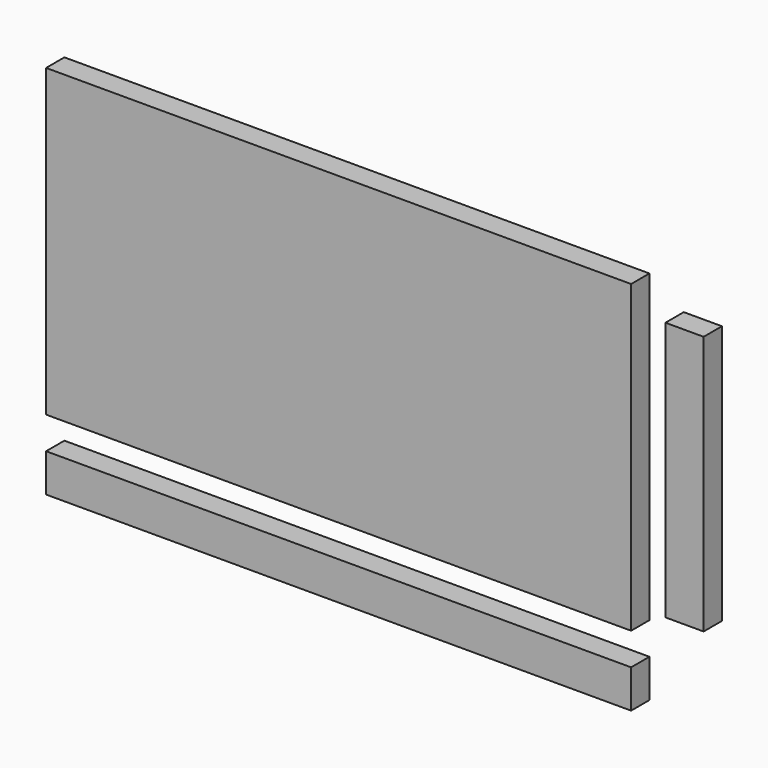
from build123d import *

# Parameters (mm, degrees)
F0_W     = 460
F0_H     = 240
F0_H_2   = 30
F0_W_2   = 30
F0_H_3   = 204
F1_DEPTH = 18


with BuildPart() as f1:
    # F0 (on Front) → F1 (new body)
    with BuildSketch(Plane.XZ):
        with Locations((4.767171, 63.557089)):
            Rectangle(F0_W, F0_H)
        with Locations((4.767171, -96.767888)):
            Rectangle(F0_W, F0_H_2)
        with Locations((276.76554, 63.557089)):
            Rectangle(F0_W_2, F0_H_3)
    extrude(amount=F1_DEPTH)


solid = f1.part
